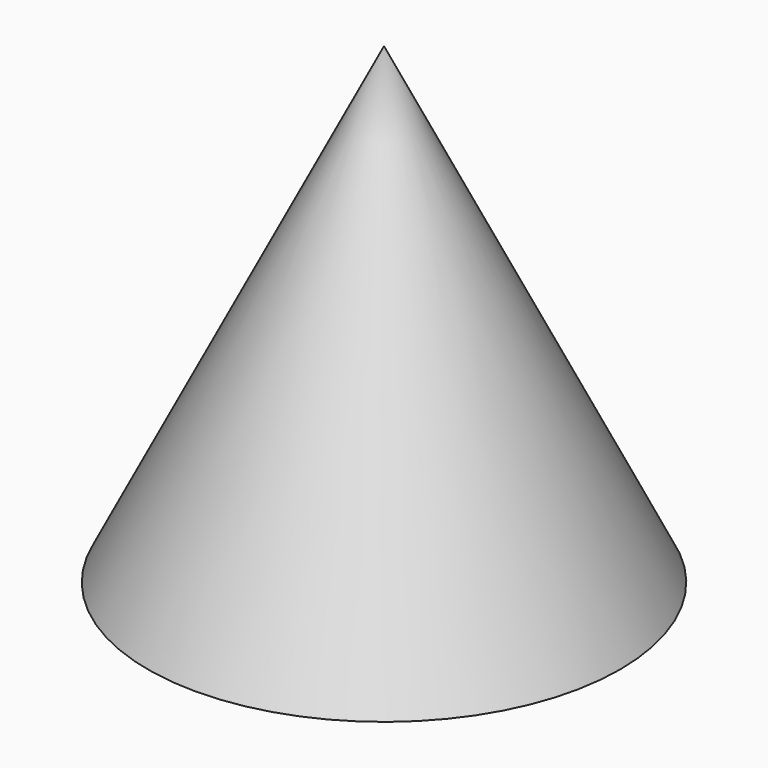
from build123d import *

# Parameters (mm, degrees)
F2_R     = 3.175
F3_DEPTH = 9.525


with BuildPart() as f1:
    # F0 (on Front) → F1 (revolve)
    with BuildSketch(Plane.XZ):
        Polygon((0, 19.05), (0, 0), (9.525, 0), align=None)
    revolve(axis=Axis((0, 0, 9.525), (0, 0, 1)))

    # F2 (on face) → F3 (cut)
    with BuildSketch(Plane(origin=(0, 0, 0), x_dir=(1, 0, 0), z_dir=(0, 0, -1))):
        Circle(F2_R)
    extrude(amount=-F3_DEPTH, mode=Mode.SUBTRACT)


solid = f1.part
